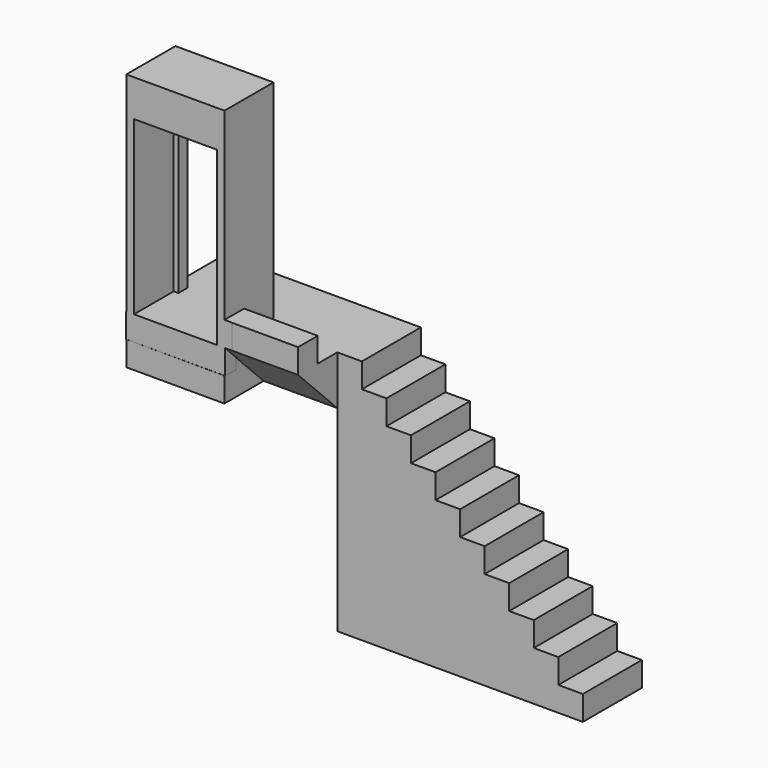
from build123d import *

# Parameters (mm, degrees)
F0_W      = 30
F0_H      = 20
F1_DEPTH  = 100
F2_W      = 80
F2_H      = 80
F3_DEPTH  = 60
F4_W      = 10
F4_H      = 10
F5_DEPTH  = 40
F7_DEPTH  = 30
F9_DEPTH  = 30
F10_W     = 10
F10_H     = 10
F11_DEPTH = 30
F12_W     = 40
F12_H     = 85
F13_DEPTH = 25
F15_W     = 33.7672308087
F15_H     = 41.9678427279
F16_DEPTH = 85
F14_W     = 30
F14_H     = 70
F17_DEPTH = 10
F18_W     = 33.7672308087
F18_H     = 41.9678427279
F19_DEPTH = 15
F20_W     = 40.303826414
F20_H     = 30.5195645853
F21_DEPTH = 10
F22_W     = 47.274120152
F22_H     = 29.6948088799
F23_DEPTH = 100
F25_DEPTH = 30
F27_DEPTH = 5


with BuildPart() as f1:
    # F0 (on Top) → F1 (new body)
    with BuildSketch(Plane.XY):
        Polygon((-33.6863899055, 46.2346871942), (-73.6863899055, 46.2346871942), (-73.6863899055, 16.2346871942), (-73.6863899055, -3.7106291857), (-33.6863899055, -3.7653128058), (-33.6863899055, 16.2346871942), align=None)
        Polygon((106.3136100945, 46.2346871942), (-33.6863899055, 46.2346871942), (-33.6863899055, 16.2346871942), (-3.6863899055, 16.2346871942), (106.3136100945, 16.2346871942), align=None)
        with Locations((-18.6863899055, 6.2346871942)):
            Rectangle(F0_W, F0_H)
    extrude(amount=F1_DEPTH)

    # F2 (on face) → F3 (cut)
    with BuildSketch(Plane(origin=(0, 46.2346871942, 0), x_dir=(-1, 0, 0), z_dir=(0, 1, 0))):
        Polygon((-106.3136100945, 100), (-106.3136100945, 0), (-6.3136100945, 100), align=None)
        with Locations((33.6863899055, 40)):
            Rectangle(F2_W, F2_H)
    extrude(amount=-F3_DEPTH, mode=Mode.SUBTRACT)

    # F4 (on face) → F5 (cut)
    with BuildSketch(Plane(origin=(0, 46.2346871942, 0), x_dir=(-1, 0, 0), z_dir=(0, 1, 0))):
        with Locations((-11.3136100945, 95)):
            Rectangle(F4_W, F4_H)
        with Locations((-101.3136100945, 5)):
            Rectangle(F4_W, F4_H)
        with Locations((-91.3136100945, 15)):
            Rectangle(F4_W, F4_H)
        with Locations((-81.3136100945, 25)):
            Rectangle(F4_W, F4_H)
        with Locations((-71.3136100945, 35)):
            Rectangle(F4_W, F4_H)
        with Locations((-61.3136100945, 45)):
            Rectangle(F4_W, F4_H)
        with Locations((-51.3136100945, 55)):
            Rectangle(F4_W, F4_H)
        with Locations((-41.3136100945, 65)):
            Rectangle(F4_W, F4_H)
        with Locations((-31.3136100945, 75)):
            Rectangle(F4_W, F4_H)
        with Locations((-21.3136100945, 85)):
            Rectangle(F4_W, F4_H)
    extrude(amount=-F5_DEPTH, mode=Mode.SUBTRACT)

    # F6 (on face) → F7 (cut)
    with BuildSketch(Plane.YZ.offset(-3.6863899055)):
        Polygon((16.2346871942, 80), (-3.7653128058, 100), (-3.7653128058, 80), align=None)
    extrude(amount=-F7_DEPTH, mode=Mode.SUBTRACT)

    # F8 (on face) → F9 (join)
    with BuildSketch(Plane.YZ.offset(-3.6863899055)):
        Polygon((-3.7653128058, 120), (-3.7653128058, 100), (16.2346871942, 100), align=None)
    extrude(amount=-F9_DEPTH)

    # F10 (on face) → F11 (cut)
    with BuildSketch(Plane.YZ.offset(-3.6863899055)):
        with Locations((11.2346871942, 105)):
            Rectangle(F10_W, F10_H)
        with Locations((1.2346871942, 115)):
            Rectangle(F10_W, F10_H)
    extrude(amount=-F11_DEPTH, mode=Mode.SUBTRACT)

    # F12 (on face) → F13 (join, symmetric)
    with BuildSketch(Plane(origin=(-0.0052104714, -3.8113580263, 0), x_dir=(0.9999990655, -0.0013670892, 0), z_dir=(-0.0013670892, -0.9999990655, 0))):
        with Locations((-53.6812109081, 142.5)):
            Rectangle(F12_W, F12_H)
    extrude(amount=F13_DEPTH, both=True)

    # F15 (on face) → F16 (cut)
    with BuildSketch(Plane.XY.offset(185)):
        with Locations((-53.6770410836, -4.4620987028)):
            Rectangle(F15_W, F15_H)
    extrude(amount=-F16_DEPTH, mode=Mode.SUBTRACT)

    # F14 (on face) → F17 (cut)
    with BuildSketch(Plane(origin=(0.0289667593, 21.188618612, 0), x_dir=(-0.9999990655, 0.0013670892, 0), z_dir=(0.0013670892, 0.9999990655, 0))):
        with Locations((53.6812109081, 135)):
            Rectangle(F14_W, F14_H)
    extrude(amount=-F17_DEPTH, mode=Mode.SUBTRACT)

    # F18 (on face) → F19 (join)
    with BuildSketch(Plane.XY.offset(185)):
        with Locations((-53.6770410836, -4.4620987028)):
            Rectangle(F18_W, F18_H)
    extrude(amount=-F19_DEPTH)

    # F20 (on face) → F21 (join)
    with BuildSketch(Plane(origin=(0, 0, 100), x_dir=(1, 0, 0), z_dir=(0, 0, -1))):
        with Locations((-53.5686165504, 13.4508235825)):
            Rectangle(F20_W, F20_H)
    extrude(amount=F21_DEPTH)

    # F22 (on face) → F23 (cut)
    with BuildSketch(Plane(origin=(0, 0, 90), x_dir=(1, 0, 0), z_dir=(0, 0, -1))):
        with Locations((-54.1594289243, 18.5580336256)):
            Rectangle(F22_W, F22_H)
    extrude(amount=-F23_DEPTH, mode=Mode.SUBTRACT)

    # F24 (on face) → F25 (cut)
    with BuildSketch(Plane(origin=(0, 46.2346871942, 0), x_dir=(-1, 0, 0), z_dir=(0, 1, 0))):
        Polygon((-72.805352509, 0), (-6.3136100945, 0), (-6.3136100945, 80), align=None)
    extrude(amount=-F25_DEPTH, mode=Mode.SUBTRACT)

    # F26 (on face) → F27 (join)
    with BuildSketch(Plane.XZ.offset(-16.2346871942)):
        Polygon((-3.6863899055, 80), (-3.6863899055, 0), (72.805352509, 0), (6.3136100945, 80), align=None)
    extrude(amount=-F27_DEPTH)


solid = f1.part
